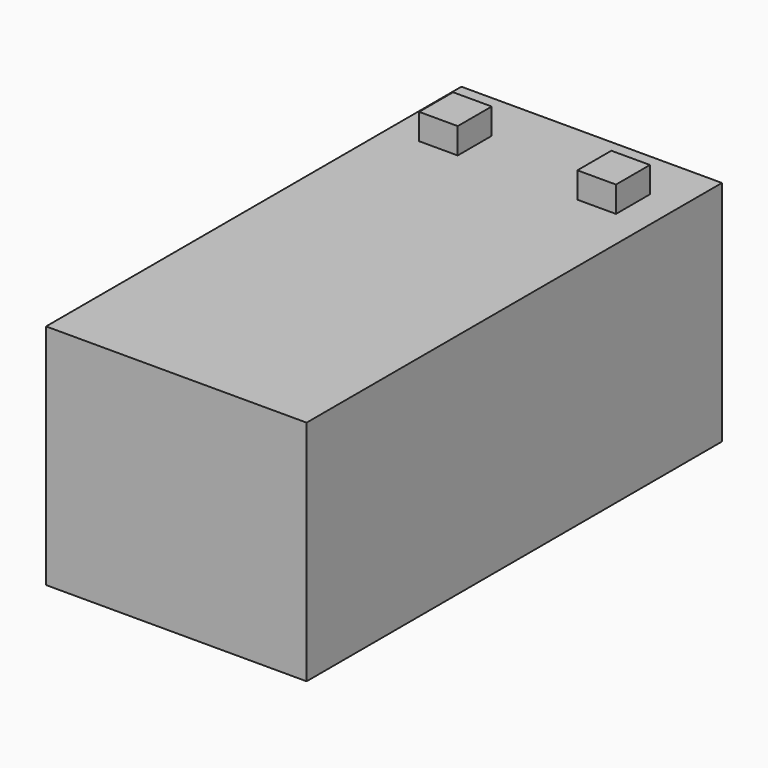
from build123d import *

# Parameters (mm, degrees)
SKETCH_W     = 67.5
SKETCH_H     = 134.5
PAD_DEPTH    = 59
SKETCH001_W  = 10
SKETCH001_H  = 11
PAD001_DEPTH = 6.7


with BuildPart() as part:
    # Sketch → Pad (new body)
    with BuildSketch(Plane.XY):
        Rectangle(SKETCH_W, SKETCH_H)
    extrude(amount=PAD_DEPTH)

    # Sketch001 (on Face6 of Pad) → Pad001 (join)
    with BuildSketch(Plane.XY.offset(59)):
        with Locations((-20.5, 48.75)):
            Rectangle(SKETCH001_W, SKETCH001_H)
        with Locations((20.5, 48.75)):
            Rectangle(SKETCH001_W, SKETCH001_H)
    extrude(amount=PAD001_DEPTH)


solid = part.part
